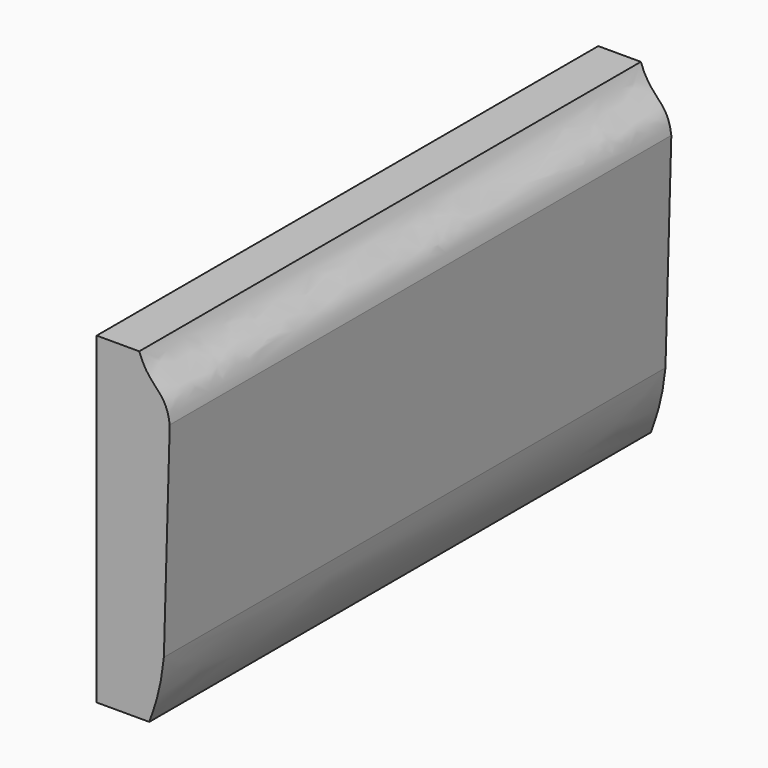
from build123d import *

# Parameters (mm, degrees)
F1_DEPTH = 177.8
F2_R     = 50.8
F4_DEPTH = 1676.4


with BuildPart() as f1:
    # F0 (on Right) → F1 (new body)
    with BuildSketch(Plane.YZ):
        with BuildLine():
            add(Edge.make_bspline(
                [(757.3677897453, 430.6074678898), (773.7689614296, 408.6542957115), (839.0123964927, 368.5044864347), (839.0123964927, 295.3796386719)],
                knots=[0, 0, 0, 0, 157.9633109488, 157.9633109488, 157.9633109488, 157.9633109488], degree=3))
            Line((757.3677897453, 430.6074678898), (-839.0123964927, 430.6074678898))
            Line((-839.0123964927, 430.6074678898), (-839.0123964927, -430.6074678898))
            Line((-839.0123964927, -430.6074678898), (-839.0123964927, -456.0074678898))
            Line((-839.0123964927, -456.0074678898), (-601.4769821503, -456.0074678898))
            add(Edge.make_bspline(
                [(-601.4769821503, -456.0074678898), (-562.1427297592, -455.1187157631), (-541.7929887772, -443.0595934391), (-536.967917018, -406.0792799859)],
                knots=[0, 0, 0, 0, 81.5735461508, 81.5735461508, 81.5735461508, 81.5735461508], degree=3))
            ThreePointArc((-536.967917018, -406.0792799859), (-258.1997910033, -122.9745139814), (63.6125510645, -355.9912367912))
            ThreePointArc((63.6125510645, -355.9912367912), (64.9345219834, -361.7820753858), (66.1433977712, -367.5975751983))
            add(Edge.make_bspline(
                [(66.1433977712, -367.5975751983), (79.3549297873, -412.2478035768), (127.0050581979, -426.72), (163.3523256442, -426.72)],
                knots=[9.2699794157, 9.2699794157, 9.2699794157, 9.2699794157, 122.2725667444, 122.2725667444, 122.2725667444, 122.2725667444], degree=3))
            Line((163.3523256442, -426.72), (737.405538559, -426.72))
            add(Edge.make_bspline(
                [(737.405538559, -426.72), (796.8827855437, -426.72), (828.529104676, -398.0098366737), (839.0123964927, -323.7623274326)],
                knots=[0, 0, 0, 0, 144.6521203428, 144.6521203428, 144.6521203428, 144.6521203428], degree=3))
            Line((839.0123964927, -323.7623274326), (839.0123964927, 295.3796386719))
        make_face()
    extrude(amount=F1_DEPTH)

    # F2
    f2_edges = [f1.edges().sort_by_distance(p)[0] for p in [
        (177.8, 839.012396, -14.191344),
    ]]
    fillet(f2_edges, radius=F2_R)


with BuildPart() as f4:
    # F3 (on face) → F4 (new body)
    with BuildSketch(Plane(origin=(0, 839.0123964927, 0), x_dir=(-1, 0, 0), z_dir=(0, 1, 0))):
        with BuildLine():
            Line((342.2788688957, 421.2450157881), (228.425770998, 421.2450157881))
            add(Edge.make_bspline(
                [(228.425770998, 421.2450157881), (200.5402892828, 342.3034548759), (157.4753234207, 355.173677206), (146.9143778086, 274.7348248959)],
                knots=[0, 0, 0, 0, 167.6584124193, 167.6584124193, 167.6584124193, 167.6584124193], degree=3))
            Line((146.9143778086, 274.7348248959), (162.6101124127, -277.5926335351))
            add(Edge.make_bspline(
                [(162.6101124127, -277.5926335351), (170.5097854137, -353.7607491016), (183.3800077438, -391.2988901138), (201.612830162, -442.3549842119)],
                knots=[0, 0, 0, 0, 169.3158119976, 169.3158119976, 169.3158119976, 169.3158119976], degree=3))
            Line((201.612830162, -442.3549842119), (342.2788688957, -442.3549842119))
            Line((342.2788688957, -442.3549842119), (342.2788688957, 421.2450157881))
        make_face()
    extrude(amount=-F4_DEPTH)


solid = f4.part
